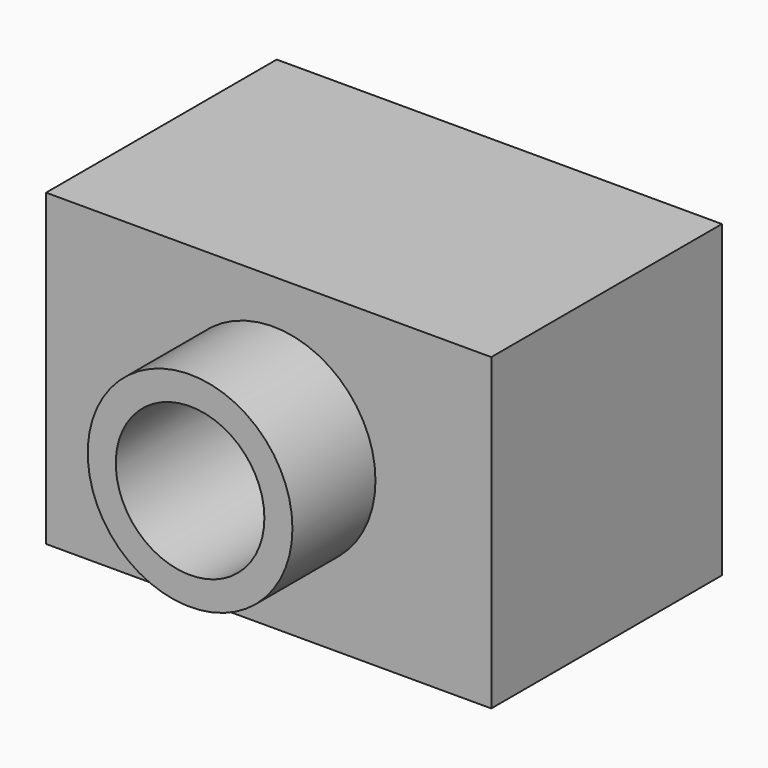
from build123d import *

# Parameters (mm, degrees)
F1_DEPTH = 76.2
F2_R     = 27.058381
F3_DEPTH = 27.432
F4_R     = 19.641698
F5_DEPTH = 197.104


with BuildPart() as f1:
    # F0 (on Front) → F1 (new body)
    with BuildSketch(Plane.XZ):
        Polygon((57.671439, 38.690969), (-60.007501, 38.690969), (-60.007501, -43.07108), (57.671439, -43.07108), (57.671439, 35.186879), align=None)
    extrude(amount=-F1_DEPTH)

    # F2 (on Front) → F3 (join)
    with BuildSketch(Plane.XZ):
        Circle(F2_R)
    extrude(amount=F3_DEPTH)

    # F4 (on face) → F5 (cut)
    with BuildSketch(Plane.XZ.offset(27.432)):
        Circle(F4_R)
    extrude(amount=-F5_DEPTH, mode=Mode.SUBTRACT)


solid = f1.part
